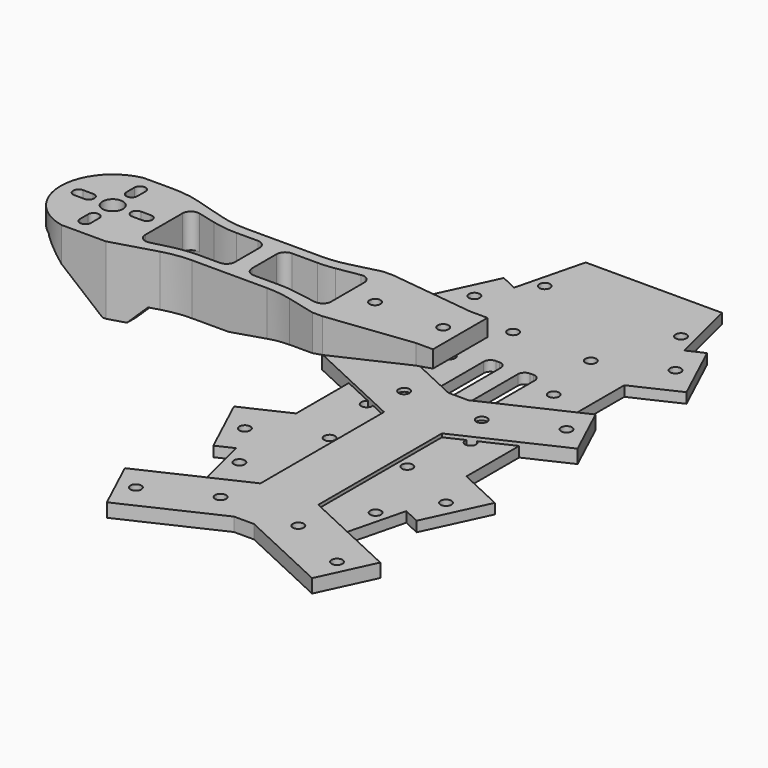
from build123d import *

# Parameters (mm, degrees)
SKETCH026_R          = 1.6
SKETCH026_R_2        = 3
PAD007_DEPTH         = 20
SKETCH027_W          = 30
SKETCH027_H          = 18
POCKET003_DEPTH      = 15
POCKET002_DEPTH      = 25.001
POCKET002_DEPTH_BACK = -5.001
SKETCH029_W          = 2
SKETCH029_H          = 24
PAD006_DEPTH         = 5
FILLET_R             = 2.5
FILLET013_R          = 30
SKETCH024_R          = 1.6
SKETCH024_W          = 5
SKETCH024_H          = 40
PAD004_DEPTH         = 3
FILLET014_R          = 2
SKETCH_R             = 1.6
PAD_DEPTH            = 4


with BuildPart() as fillet013:
    # Sketch026 → Pad007 (new body)
    with BuildSketch(Plane.XY):
        with BuildLine():
            Line((0, 10), (-5, 10))
            Line((-5, 10), (-30, 13))
            Line((-30, 13), (-33, 13))
            Line((-33, 13), (-45, 10))
            Line((-45, 10), (-75, 10))
            Line((-75, 10), (-92, 15))
            Line((-92, 15), (-105, 15))
            ThreePointArc((-105, 15), (-117.297059, 0), (-105, -15))
            Line((-105, -15), (-92, -15))
            Line((-92, -15), (-75, -10))
            Line((-75, -10), (-45, -10))
            Line((-45, -10), (-33, -13))
            Line((-33, -13), (-30, -13))
            Line((-30, -13), (-5, -10))
            Line((-5, -10), (0, -10))
            Line((0, -10), (0, 10))
        make_face()
        with Locations((-5, 0)):
            Circle(SKETCH026_R, mode=Mode.SUBTRACT)
        with Locations((-25, 0)):
            Circle(SKETCH026_R, mode=Mode.SUBTRACT)
        with Locations((-102, 0)):
            Circle(SKETCH026_R_2, mode=Mode.SUBTRACT)
        Polygon((-33, 9), (-45, 7), (-57.5, 7), (-57.5, -7), (-45, -7), (-33, -9), align=None, mode=Mode.SUBTRACT)
        Polygon((-62.5, 7), (-62.5, -7), (-75, -7), (-87, -10), (-87, 10), (-75, 7), align=None, mode=Mode.SUBTRACT)
        with BuildLine():
            ThreePointArc((-112, 1.6), (-113.6, 0), (-112, -1.6))
            Line((-112, -1.6), (-109, -1.6))
            ThreePointArc((-109, -1.6), (-107.4, 0), (-109, 1.6))
            Line((-112, 1.6), (-109, 1.6))
        make_face(mode=Mode.SUBTRACT)
        with BuildLine():
            ThreePointArc((-92, -1.6), (-90.4, 0), (-92, 1.6))
            Line((-92, 1.6), (-95, 1.6))
            ThreePointArc((-95, 1.6), (-96.6, 0), (-95, -1.6))
            Line((-92, -1.6), (-95, -1.6))
        make_face(mode=Mode.SUBTRACT)
        with BuildLine():
            ThreePointArc((-100.4, 10), (-102, 11.6), (-103.6, 10))
            Line((-103.6, 10), (-103.6, 7))
            ThreePointArc((-103.6, 7), (-102, 5.4), (-100.4, 7))
            Line((-100.4, 10), (-100.4, 7))
        make_face(mode=Mode.SUBTRACT)
        with BuildLine():
            ThreePointArc((-100.4, -7), (-102, -5.4), (-103.6, -7))
            Line((-103.6, -7), (-103.6, -10))
            ThreePointArc((-103.6, -10), (-102, -11.6), (-100.4, -10))
            Line((-100.4, -7), (-100.4, -10))
        make_face(mode=Mode.SUBTRACT)
    extrude(amount=PAD007_DEPTH)

    # Sketch027 → Pocket003 (cut)
    with BuildSketch(Plane(origin=(0, 0, 0), x_dir=(1, 0, 0), z_dir=(0, 0, -1))):
        with Locations((-15, 0)):
            Rectangle(SKETCH027_W, SKETCH027_H)
        Polygon((-102, 13.5), (-87, 10), (-87, -10), (-102, -13.5), (-120.8434, -11.5), (-120.8434, 11.5), align=None)
    extrude(amount=-POCKET003_DEPTH, mode=Mode.SUBTRACT)

    # Sketch028 → Pocket002 (cut, two sides)
    with BuildSketch(Plane.XZ.offset(10)) as pocket002_sk:
        Polygon((-123, 14.845852), (-111, 14.845852), (-93, 0), (-87, 0), (-82, 5), (-60, 5), (0, 15), (5, 15), (5, -8.313704), (-123, -8.313704), align=None)
    extrude(amount=-POCKET002_DEPTH, mode=Mode.SUBTRACT)
    extrude(pocket002_sk.sketch, amount=-POCKET002_DEPTH_BACK, mode=Mode.SUBTRACT)

    # Sketch029 → Pad006 (new body)
    with BuildSketch(Plane(origin=(0, 0, 15), x_dir=(1, 0, 0), z_dir=(0, 0, -1))):
        with Locations((-88, 0)):
            Rectangle(SKETCH029_W, SKETCH029_H)
    extrude(amount=PAD006_DEPTH)

    # Fillet
    fillet_edges = [fillet013.edges().sort_by_distance(p)[0] for p in [
        (-87, 10, 12.5),
        (-87, 10, 17.5),
        (-87, -10, 17.5),
        (-87, -10, 12.5),
        (-57.5, -7, 12.708333),
        (-57.5, 7, 12.708333),
        (-62.5, -7, 12.5),
        (-33, -9, 14.75),
        (-62.5, 7, 12.5),
        (-33, 9, 14.75),
    ]]
    fillet(fillet_edges, radius=FILLET_R)

    # Fillet013
    fillet013_edges = [fillet013.edges().sort_by_distance(p)[0] for p in [
        (-75, -7, 12.5),
        (-45, -7, 13.75),
        (-75, 10, 12.5),
        (-45, 10, 13.75),
        (-92, 15, 10),
        (-75, 7, 12.5),
        (-45, 7, 13.75),
        (-45, -10, 13.75),
        (-75, -10, 12.5),
    ]]
    fillet(fillet013_edges, radius=FILLET013_R)


with BuildPart() as fillet014:
    # Sketch024 → Pad004 (new body)
    with BuildSketch(Plane.XY):
        Polygon((-25, 28.966221), (-25, -28.966221), (-38.28926, -35.163105), (-29.836895, -53.28926), (-25, -51.033779), (-20, -71.033779), (20, -71.033779), (25, -51.033779), (29.836895, -53.28926), (38.28926, -35.163105), (25, -28.966221), (25, 28.966221), (38.28926, 35.163105), (29.836895, 53.28926), (25, 51.033779), (20, 71.033779), (-20, 71.033779), (-25, 51.033779), (-29.836895, 53.28926), (-38.28926, 35.163105), align=None)
        with Locations((-29.531539, 42.113091)):
            Circle(SKETCH024_R, mode=Mode.SUBTRACT)
        with Locations((-11.405383, 33.660726)):
            Circle(SKETCH024_R, mode=Mode.SUBTRACT)
        with Locations((29.531539, 42.113091)):
            Circle(SKETCH024_R, mode=Mode.SUBTRACT)
        with Locations((11.405383, 33.660726)):
            Circle(SKETCH024_R, mode=Mode.SUBTRACT)
        with Locations((15.25, 15.25)):
            Circle(SKETCH024_R, mode=Mode.SUBTRACT)
        with Locations((-15.25, 15.25)):
            Circle(SKETCH024_R, mode=Mode.SUBTRACT)
        with Locations((-15.25, -15.25)):
            Circle(SKETCH024_R, mode=Mode.SUBTRACT)
        with Locations((15.25, -15.25)):
            Circle(SKETCH024_R, mode=Mode.SUBTRACT)
        with Locations((-29.531539, -42.113091)):
            Circle(SKETCH024_R, mode=Mode.SUBTRACT)
        with Locations((-11.405383, -33.660726)):
            Circle(SKETCH024_R, mode=Mode.SUBTRACT)
        with Locations((11.405383, -33.660726)):
            Circle(SKETCH024_R, mode=Mode.SUBTRACT)
        with Locations((29.531539, -42.113091)):
            Circle(SKETCH024_R, mode=Mode.SUBTRACT)
        with Locations((-20, 56.033779)):
            Circle(SKETCH024_R, mode=Mode.SUBTRACT)
        with Locations((20, 56.033779)):
            Circle(SKETCH024_R, mode=Mode.SUBTRACT)
        with Locations((-20, -56.033779)):
            Circle(SKETCH024_R, mode=Mode.SUBTRACT)
        with Locations((20, -56.033779)):
            Circle(SKETCH024_R, mode=Mode.SUBTRACT)
        with Locations((-20, 0)):
            Circle(SKETCH024_R, mode=Mode.SUBTRACT)
        with Locations((20, 0)):
            Circle(SKETCH024_R, mode=Mode.SUBTRACT)
        with Locations((-5, 0)):
            Rectangle(SKETCH024_W, SKETCH024_H, mode=Mode.SUBTRACT)
        with Locations((5, 0)):
            Rectangle(SKETCH024_W, SKETCH024_H, mode=Mode.SUBTRACT)
    extrude(amount=PAD004_DEPTH)

    # Fillet014
    fillet014_edges = [fillet014.edges().sort_by_distance(p)[0] for p in [
        (-2.5, 20, 1.5),
        (7.5, 20, 1.5),
        (2.5, 20, 1.5),
        (-7.5, 20, 1.5),
        (2.5, -20, 1.5),
        (-7.5, -20, 1.5),
        (-2.5, -20, 1.5),
        (7.5, -20, 1.5),
    ]]
    fillet(fillet014_edges, radius=FILLET014_R)


with BuildPart() as pad:
    # Sketch → Pad (new body)
    with BuildSketch(Plane.XY):
        Polygon((-37.494543, -3.795154), (-8.492694, -17.318939), (-8.492694, -62.681061), (-37.494543, -76.204846), (-30.12408, -92.010853), (-2.934847, -79.332306), (2.934847, -79.332306), (30.12408, -92.010853), (37.494543, -76.204846), (8.492694, -62.681061), (8.492694, -17.318939), (37.494543, -3.795154), (30.12408, 12.010853), (2.934847, -0.667694), (-2.934847, -0.667694), (-30.12408, 12.010853), align=None)
        with Locations((-29.531539, 2.113091)):
            Circle(SKETCH_R, mode=Mode.SUBTRACT)
        with Locations((-11.405383, -6.339274)):
            Circle(SKETCH_R, mode=Mode.SUBTRACT)
        with Locations((11.405383, -6.339274)):
            Circle(SKETCH_R, mode=Mode.SUBTRACT)
        with Locations((29.531539, 2.113091)):
            Circle(SKETCH_R, mode=Mode.SUBTRACT)
        with Locations((-29.531539, -82.113091)):
            Circle(SKETCH_R, mode=Mode.SUBTRACT)
        with Locations((-11.405383, -73.660726)):
            Circle(SKETCH_R, mode=Mode.SUBTRACT)
        with Locations((11.405383, -73.660726)):
            Circle(SKETCH_R, mode=Mode.SUBTRACT)
        with Locations((29.531539, -82.113091)):
            Circle(SKETCH_R, mode=Mode.SUBTRACT)
    extrude(amount=PAD_DEPTH)


solid = Compound([fillet013.part, fillet014.part, pad.part])
